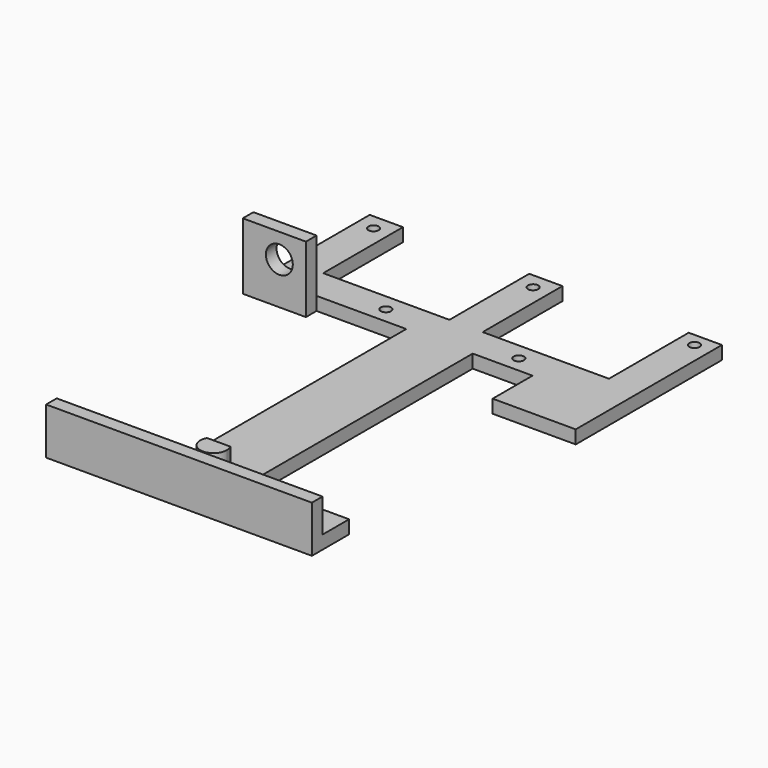
from build123d import *

# Parameters (mm, degrees)
F0_W      = 10
F0_H      = 30
F0_W_2    = 5
F0_W_3    = 30
F0_H_2    = 10
F0_W_4    = 25
F0_H_3    = 15
F1_DEPTH  = 4
F2_W      = 16
F2_H      = 16
F2_H_2    = 4
F3_DEPTH  = 4
F5_D      = 8.1
F7_DEPTH  = 3
F8_W      = 80
F8_H      = 10.0841035172
F8_H_2    = 4
F9_DEPTH  = 4
F11_D     = 3.1
F12_R     = 1.45
F13_DEPTH = 3
F14_R     = 1.45
F15_DEPTH = 4
F17_D     = 3.1


with BuildPart() as f1:
    # F0 (on Top) → F1 (new body)
    with BuildSketch(Plane.XY):
        with Locations((-48, 67)):
            Rectangle(F0_W, F0_H)
        Polygon((-10, 42), (-10, 52), (-43, 52), (-53, 52), (-53, 42), align=None)
        with Locations((-2.5, 67)):
            Rectangle(F0_W_2, F0_H)
        with Locations((2.5, 67)):
            Rectangle(F0_W_2, F0_H)
        Polygon((-5, 52), (-10, 52), (-10, 42), (-10, -42), (-10, -52), (10, -52), (10, -42), (10, 42), (10, 52), (5, 52), (0, 52), align=None)
        with Locations((-25, -47)):
            Rectangle(F0_W_3, F0_H_2)
        with Locations((25, -47)):
            Rectangle(F0_W_3, F0_H_2)
        with Locations((40.5, 34.5)):
            Rectangle(F0_W_4, F0_H_3)
        Polygon((43, 52), (10, 52), (10, 42), (28, 42), (53, 42), (53, 52), align=None)
        with Locations((48, 67)):
            Rectangle(F0_W, F0_H)
        Polygon((43, 52), (10, 52), (10, 42), (28, 42), (53, 42), (53, 52), align=None)
    extrude(amount=F1_DEPTH)

    # F2 (on face) → F3 (join)
    with BuildSketch(Plane.XZ.offset(-42)):
        with Locations((-45, 12)):
            Rectangle(F2_W, F2_H)
        with Locations((-45, 2)):
            Rectangle(F2_W, F2_H_2)
    extrude(amount=F3_DEPTH)

    # F5 (through all)
    with Locations(Plane.XZ.offset(-38)):
        with Locations((-45, 12.6515012234)):
            Hole(F5_D / 2)

    # F6 (on face) → F7 (join)
    with BuildSketch(Plane(origin=(-53, 0, 0), x_dir=(0, -1, 0), z_dir=(-1, 0, 0))):
        Polygon((-42, 20), (-45.4689958334, 4), (-42, 4), align=None)
        Polygon((-45.4689958334, 4), (-46.3362447917, 0), (-38, 0), (-38, 20), (-42, 20), (-42, 4), align=None)
    extrude(amount=F7_DEPTH)

    # F8 (on face) → F9 (join)
    with BuildSketch(Plane.XZ.offset(52)):
        with Locations((0, 9.0420517586)):
            Rectangle(F8_W, F8_H)
        with Locations((0, 2)):
            Rectangle(F8_W, F8_H_2)
    extrude(amount=F9_DEPTH)

    # F11 (through all)
    with Locations(Plane.XY.offset(4)):
        with Locations((-20, 46.8481220305), (20, 46.8481220305), (-48, 77.2035785913), (0, 77.2035785913), (71.8699040711, 77.2035785913)):
            Hole(F11_D / 2)

    # F12 (on face) → F13 (join)
    with BuildSketch(Plane.XY.offset(4)):
        with Locations((0, -43)):
            Circle(F12_R)
    extrude(amount=F13_DEPTH)

    # F14 (on face) → F15 (join)
    with BuildSketch(Plane.XY.offset(7)):
        with BuildLine():
            ThreePointArc((-3.4964729281, -41.0571471845), (-1.0035208736, -46.8720725531), (4, -43))
            ThreePointArc((4, -43), (3.8720725531, -41.9964791264), (3.4964729281, -41.0571471845))
            Line((3.4964729281, -41.0571471845), (-3.4964729281, -41.0571471845))
        make_face()
        with Locations((0, -43)):
            Circle(F14_R, mode=Mode.SUBTRACT)
        with Locations((0, -43)):
            Circle(F14_R)
    extrude(amount=F15_DEPTH)

    # F17 (through all)
    with Locations(Plane.XY.offset(4)):
        with Locations((47.9784347117, 77.9637917876)):
            Hole(F17_D / 2)


solid = f1.part
